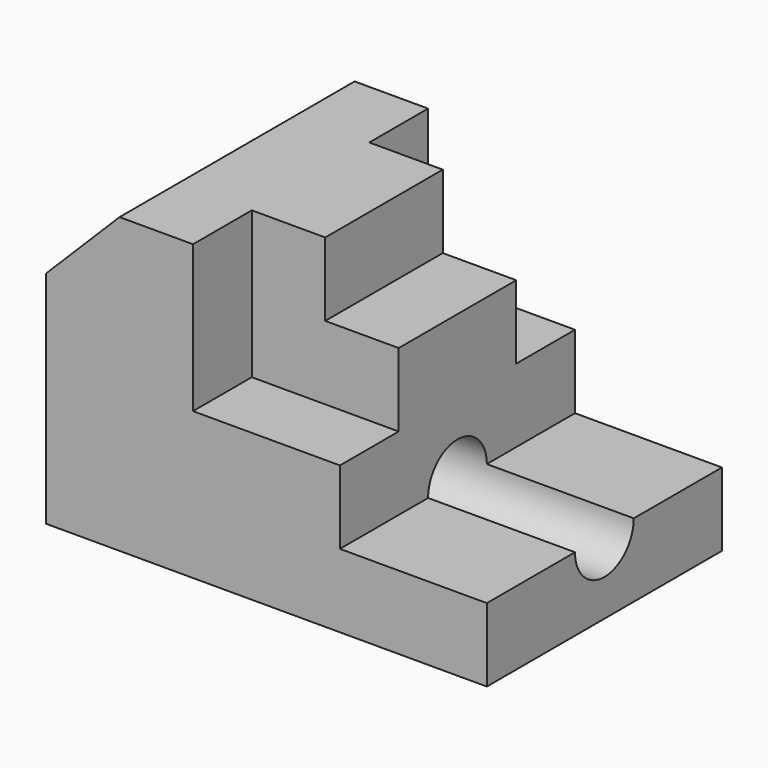
from build123d import *

# Parameters (mm, degrees)
F1_DEPTH = 25.4
F2_R     = 6.35
F3_DEPTH = 76.201
F5_DEPTH = 12.7


with BuildPart() as f1:
    # F0 (on Front) → F1 (new body, symmetric)
    with BuildSketch(Plane.XZ):
        Polygon((0, 12.7), (0, 0), (76.2, 0), (76.2, 12.7), (50.8, 12.7), align=None)
        Polygon((0, 25.4), (0, 12.7), (50.8, 12.7), (50.8, 25.4), (25.4, 25.4), align=None)
        Polygon((0, 38.1), (0, 25.4), (25.4, 25.4), (25.4, 50.8), (12.7, 50.8), align=None)
    extrude(amount=F1_DEPTH, both=True)

    # F2 (on Right) → F3 (cut, through all)
    with BuildSketch(Plane.YZ):
        with Locations((0, 12.7)):
            Circle(F2_R)
    extrude(amount=F3_DEPTH, mode=Mode.SUBTRACT)

    # F4 (on Front) → F5 (join, symmetric)
    with BuildSketch(Plane.XZ):
        Polygon((38.1, 50.8), (25.4, 50.8), (25.4, 25.4), (50.8, 25.4), (50.8, 38.1), (38.1, 38.1), align=None)
    extrude(amount=F5_DEPTH, both=True)


solid = f1.part
